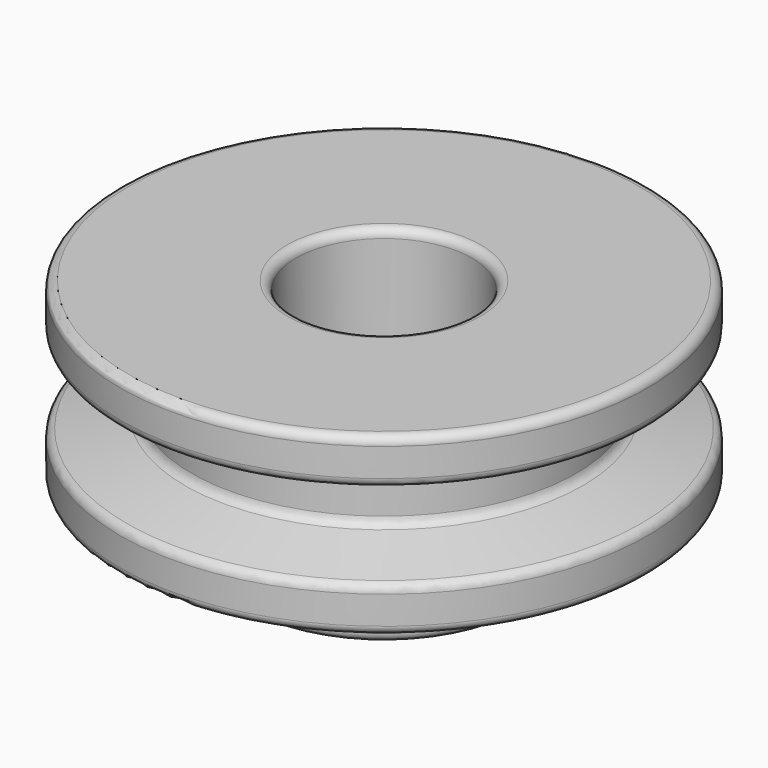
from build123d import *

# Parameters (mm, degrees)
F2_R     = 8
F2_R_2   = 5
F3_DEPTH = 4
F4_DEPTH = 25
F5_R     = 0.5


with BuildPart() as f1:
    # F0 (on Front) → F1 (revolve)
    with BuildSketch(Plane.XZ):
        Polygon((-15, 0), (-5, 0), (-5, 10), (-15, 10), (-15, 7.5), (-10.9235660713, 6.5), (-10.9235660713, 3.5), (-15, 2.5), align=None)
    revolve(axis=Axis((0, 0, 5), (0, 0, 1)))

    # F2 (on face) → F3 (join)
    with BuildSketch(Plane(origin=(0, 0, 0), x_dir=(1, 0, 0), z_dir=(0, 0, -1))):
        Circle(F2_R)
        Circle(F2_R_2, mode=Mode.SUBTRACT)
        Circle(F2_R)
    extrude(amount=F3_DEPTH)

    # F4 (cut): a face of the model
    f4_faces = [f1.faces().sort_by_distance(p)[0] for p in [
        (0, 0, 0),
    ]]
    extrude(f4_faces, amount=-F4_DEPTH, mode=Mode.SUBTRACT)

    # F5
    f5_edges = [f1.edges().sort_by_distance(p)[0] for p in [
        (5, 0, -4),
        (-8, 0, -4),
        (-8, 0, 0),
        (15, 0, 0),
        (15, 0, 2.5),
        (15, 0, 7.5),
        (15, 0, 10),
        (10.923566, 0, 6.5),
        (10.923566, 0, 3.5),
        (5, 0, 10),
    ]]
    fillet(f5_edges, radius=F5_R)


solid = f1.part
